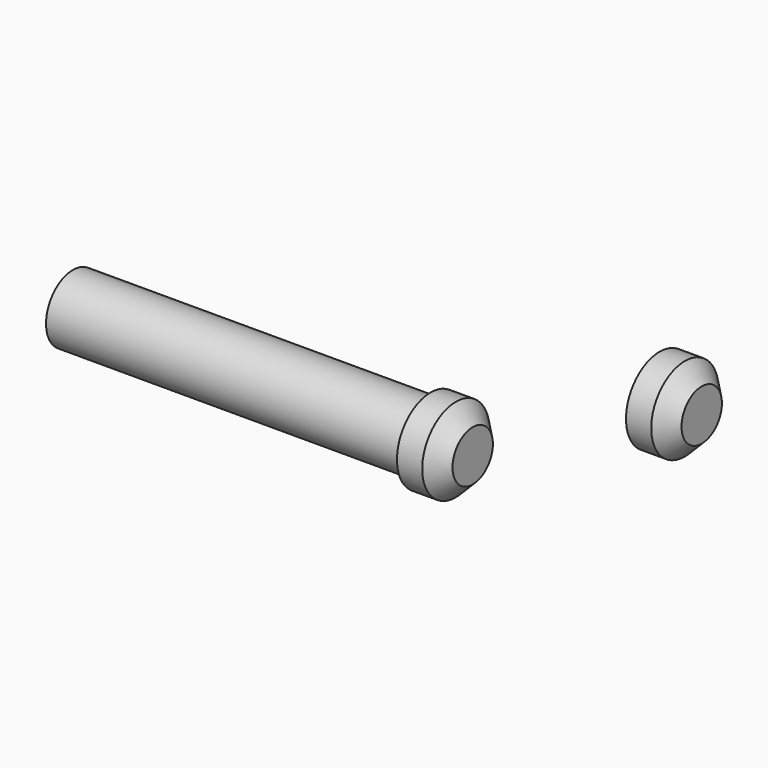
from build123d import *

# Parameters (mm, degrees)
F0_R      = 4
F1_DEPTH  = 42.5
F0_R_2    = 5
F1_FACE_R = 4
F2_DEPTH  = 5
F3_SIZE   = 2
F4_R      = 5
F4_R_2    = 4
F5_DEPTH  = 5
F6_DEPTH  = 2.5
F7_SIZE   = 2


with BuildPart() as f1:
    # F0 (on Right) → F1 (new body)
    with BuildSketch(Plane.YZ):
        with Locations((-45.41593, 26.547479)):
            Circle(F0_R)
    extrude(amount=-F1_DEPTH)

    # F0 (on Right) + F1_face (on face) → F2 (join)
    with BuildSketch(Plane.YZ):
        with Locations((-45.41593, 26.547479)):
            Circle(F0_R_2)
        with Locations((-45.41593, 26.547479)):
            Circle(F0_R, mode=Mode.SUBTRACT)
    with BuildSketch(Plane(origin=(0, -45.41593, 26.547479), x_dir=(0, 1, 0), z_dir=(1, 0, 0))):
        Circle(F1_FACE_R)
    extrude(amount=F2_DEPTH)

    # F3
    f3_edges = [f1.edges().sort_by_distance(p)[0] for p in [
        (5, -50.41593, 26.547479),
    ]]
    chamfer(f3_edges, length=F3_SIZE)


with BuildPart() as f5:
    # F4 (on Right) → F5 (new body)
    with BuildSketch(Plane.YZ):
        with Locations((-11.398076, 16.985593)):
            Circle(F4_R)
        with Locations((-11.398076, 16.985593)):
            Circle(F4_R_2, mode=Mode.SUBTRACT)
        with Locations((-11.398076, 16.985593)):
            Circle(F4_R_2)
    extrude(amount=F5_DEPTH)

    # F4 (on Right) → F6 (cut)
    with BuildSketch(Plane.YZ):
        with Locations((-11.398076, 16.985593)):
            Circle(F4_R_2)
    extrude(amount=F6_DEPTH, mode=Mode.SUBTRACT)

    # F7
    f7_edges = [f5.edges().sort_by_distance(p)[0] for p in [
        (5, -16.398076, 16.985593),
    ]]
    chamfer(f7_edges, length=F7_SIZE)


solid = Compound([f1.part, f5.part])
